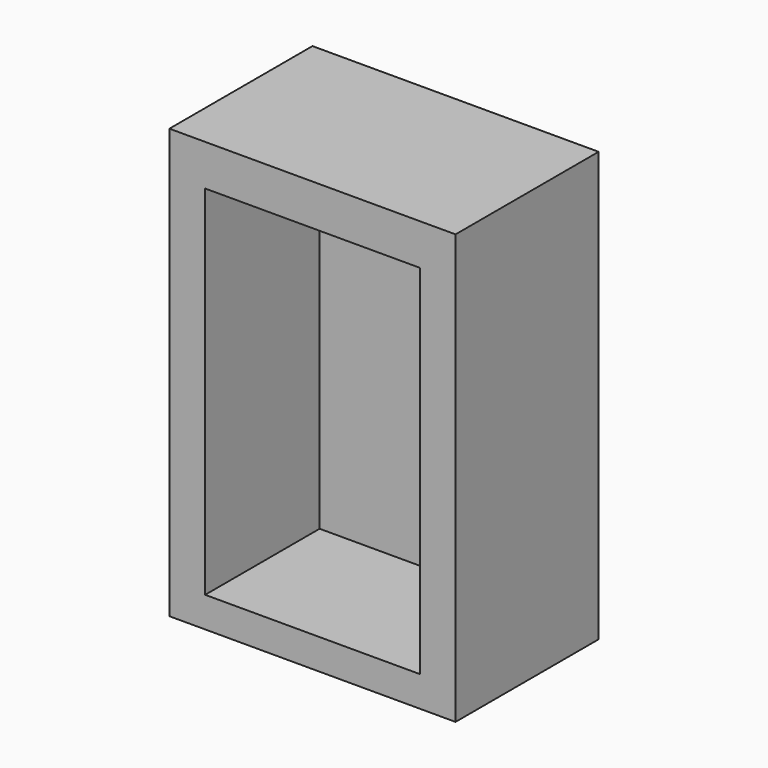
from build123d import *

# Parameters (mm, degrees)
F0_W     = 101.6
F0_H     = 152.4
F0_W_2   = 76.2
F0_H_2   = 127
F1_DEPTH = 63.5
F2_DEPTH = 12.7


with BuildPart() as f1:
    # F0 (on Front) → F1 (new body)
    with BuildSketch(Plane.XZ):
        Rectangle(F0_W, F0_H)
        with Locations((0, -1.875399)):
            Rectangle(F0_W_2, F0_H_2, mode=Mode.SUBTRACT)
    extrude(amount=F1_DEPTH)

    # F0 (on Front) → F2 (join)
    with BuildSketch(Plane.XZ):
        with Locations((0, -1.875399)):
            Rectangle(F0_W_2, F0_H_2)
    extrude(amount=F2_DEPTH)


solid = f1.part
